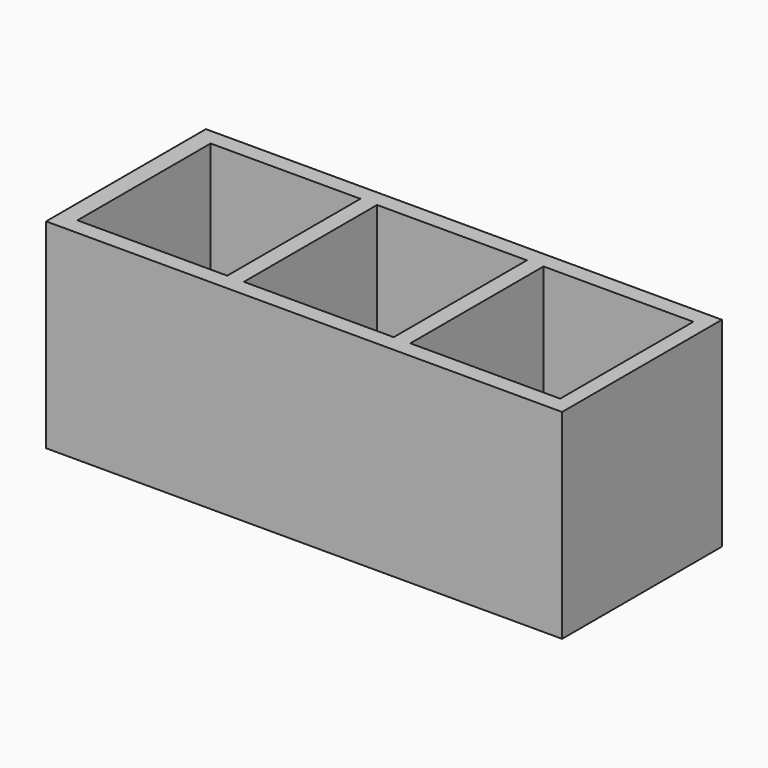
from build123d import *

# Parameters (mm, degrees)
F0_W     = 787.4
F0_H     = 304.8
F1_DEPTH = 304.8
F2_W     = 228.6
F2_H     = 254
F2_W_2   = 508
F4_DEPTH = 279.4
F3_W     = 508
F3_H     = 254
F5_DEPTH = 279.4
F6_W     = 25.4
F6_H     = 254
F7_DEPTH = 279.4
F8_W     = 25.4
F8_H     = 254
F9_DEPTH = 279.4


with BuildPart() as f1:
    # F0 (on Top) → F1 (new body)
    with BuildSketch(Plane.XY):
        with Locations((-393.7, 152.4)):
            Rectangle(F0_W, F0_H)
    extrude(amount=F1_DEPTH)

    # F2 (on face) → F4 (cut)
    with BuildSketch(Plane.XY.offset(304.8)):
        with Locations((-645.575834, 152.4)):
            Rectangle(F2_W, F2_H)
        with Locations((-277.275834, 152.4)):
            Rectangle(F2_W_2, F2_H)
    extrude(amount=-F4_DEPTH, mode=Mode.SUBTRACT)

    # F3 (on face) → F5 (cut)
    with BuildSketch(Plane.XY.offset(304.8)):
        with Locations((-277.275834, 152.4)):
            Rectangle(F3_W, F3_H)
    extrude(amount=-F5_DEPTH, mode=Mode.SUBTRACT)

    # F6 (on face) → F7 (join, through all)
    with BuildSketch(Plane.XY.offset(25.4)):
        with Locations((-518.575834, 152.4)):
            Rectangle(F6_W, F6_H)
    extrude(amount=F7_DEPTH)

    # F8 (on face) → F9 (join, through all)
    with BuildSketch(Plane.XY.offset(25.4)):
        with Locations((-264.575834, 152.4)):
            Rectangle(F8_W, F8_H)
    extrude(amount=F9_DEPTH)


solid = f1.part
